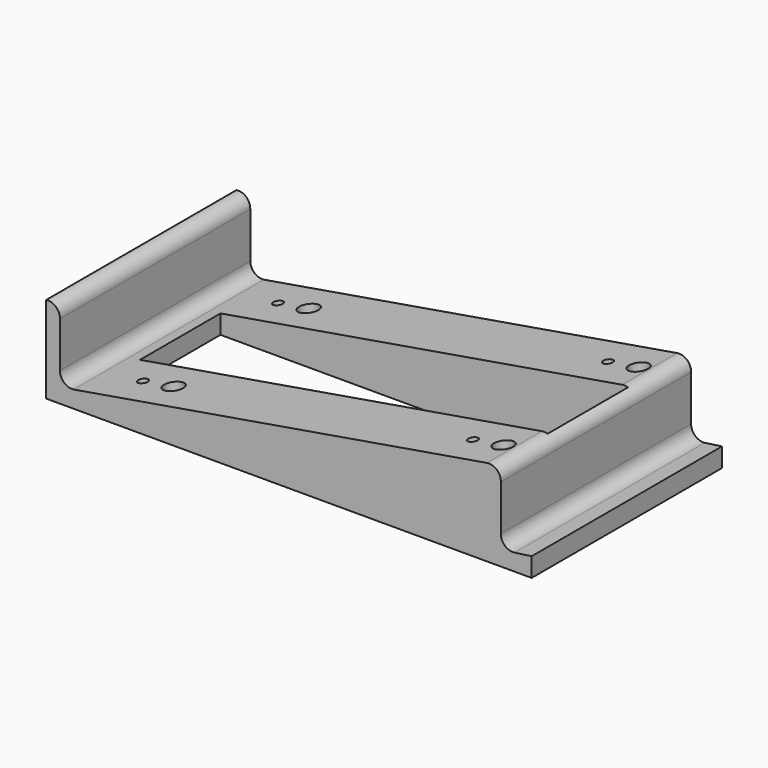
from build123d import *

# Parameters (mm, degrees)
F1_DEPTH = 31
F3_W     = 106.2213294208
F3_H     = 13.1045691669
F4_DEPTH = 25
F5_R     = 1.25
F5_R_2   = 2.5
F6_DEPTH = 15
F7_START = -8
F5_R_3   = 4.5
F7_DEPTH = 4


with BuildPart() as f1:
    # F0 (on Front) → F1 (new body)
    with BuildSketch(Plane.XZ):
        with BuildLine():
            Line((-59.654000323, -3.5138892937), (-59.654000323, 8.3879307063))
            ThreePointArc((-59.654000323, 8.3879307063), (-60.7190612433, 10.8045648955), (-63.2520458808, 11.5518696492))
            Line((-63.2520458808, 11.5518696492), (-63.2789134979, -11.1016744181))
            Line((-63.2789134979, -11.1016744181), (63.284156729, -11.1016744181))
            Line((63.284156729, -11.1016744181), (63.284156729, -6.1260935991))
            Line((63.284156729, -6.1260935991), (58.8121598262, -6.7381653853))
            ThreePointArc((58.8121598262, -6.7381653853), (56.307949738, -5.9657950954), (55.2598693261, -3.5638892937))
            Line((55.2598693261, -3.5638892937), (55.2598693261, 8.3326508177))
            ThreePointArc((55.2598693261, 8.3326508177), (54.1975321527, 10.7659194445), (51.649858136, 11.5133909047))
            Line((51.649858136, 11.5133909047), (-56.1369696956, -6.6881653853))
            ThreePointArc((-56.1369696956, -6.6881653853), (-58.6174350193, -5.900932648), (-59.654000323, -3.5138892937))
        make_face()
    extrude(amount=F1_DEPTH)

    # F2: F1 across plane


with BuildPart() as f1_1:
    add(f1.part)
    add(f1.part.mirror(Plane.XZ))

    # F3 (on Top) → F4 (cut, symmetric)
    with BuildSketch(Plane.XY):
        with Locations((0.0008549541, -6.5522845834)):
            Rectangle(F3_W, F3_H)
        with Locations((0.0008549541, 6.5522845834)):
            Rectangle(F3_W, F3_H)
    extrude(amount=F4_DEPTH, both=True, mode=Mode.SUBTRACT)

    # F5 (on Top) → F6 (cut, symmetric)
    with BuildSketch(Plane.XY):
        with Locations((40.7651439339, -22)):
            Circle(F5_R)
        with Locations((-45.2348560661, -21.9999999583)):
            Circle(F5_R)
        with Locations((-45.23294, 22)):
            Circle(F5_R)
        with Locations((40.76706, 22)):
            Circle(F5_R)
        with Locations((-37.23294, 22)):
            Circle(F5_R_2)
        with Locations((-37.2348560737, -22.0003483339)):
            Circle(F5_R_2)
        with Locations((48.7651439263, -22.0003483756)):
            Circle(F5_R_2)
        with Locations((48.76706, 22)):
            Circle(F5_R_2)
    extrude(amount=F6_DEPTH, both=True, mode=Mode.SUBTRACT)

    # F5 (on Top) → F7 (cut)
    with BuildSketch(Plane.XY.offset(F7_START)):
        with Locations((-37.23294, 22)):
            Circle(F5_R_3)
        with Locations((-37.23294, 22)):
            Circle(F5_R_2, mode=Mode.SUBTRACT)
        with Locations((-37.2348560737, -22.0003483339)):
            Circle(F5_R_3)
        with Locations((-37.2348560737, -22.0003483339)):
            Circle(F5_R_2, mode=Mode.SUBTRACT)
        with Locations((48.76706, 22)):
            Circle(F5_R_3)
        with Locations((48.76706, 22)):
            Circle(F5_R_2, mode=Mode.SUBTRACT)
        with Locations((48.7651439263, -22.0003483756)):
            Circle(F5_R_3)
        with Locations((48.7651439263, -22.0003483756)):
            Circle(F5_R_2, mode=Mode.SUBTRACT)
    extrude(amount=-F7_DEPTH, mode=Mode.SUBTRACT)


solid = f1_1.part
